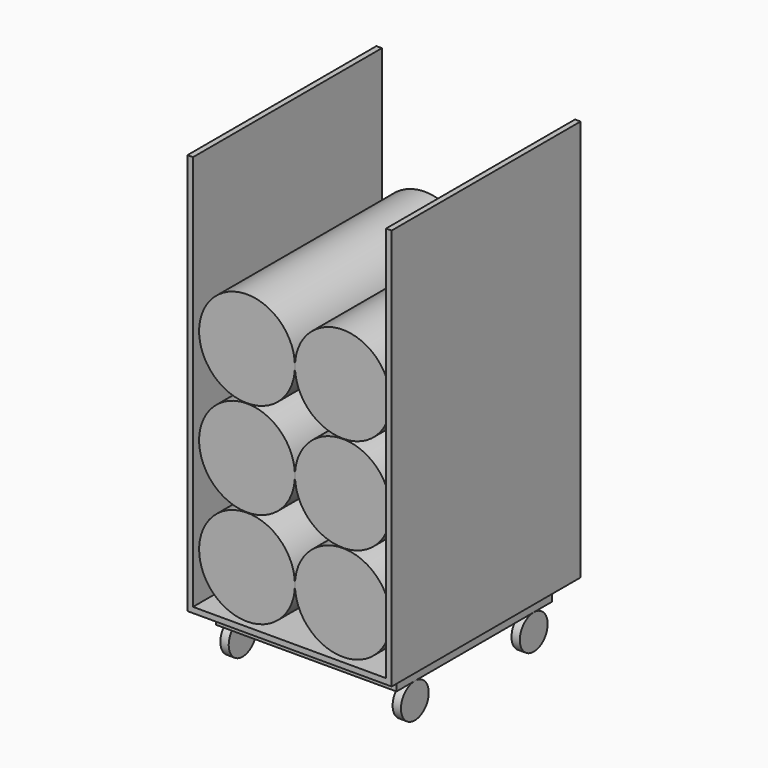
from build123d import *

# Parameters (mm, degrees)
F0_W      = 735
F0_H      = 850
F1_DEPTH  = 10
F2_W      = 20
F2_H      = 850
F3_DEPTH  = 1425
F4_R      = 172.5
F5_DEPTH  = 400
F6_W      = 650
F6_H      = 700
F6_W_2    = 580
F6_H_2    = 640
F7_DEPTH  = 60
F8_R      = 62.5
F9_DEPTH  = 30
F10_R     = 62.5
F11_DEPTH = 30


with BuildPart() as f1:
    # F0 (on Top) → F1 (new body, symmetric)
    with BuildSketch(Plane.XY):
        Rectangle(F0_W, F0_H)
    extrude(amount=F1_DEPTH, both=True)

    # F2 (on face) → F3 (join)
    with BuildSketch(Plane.XY.offset(10)):
        with Locations((-357.5, 0)):
            Rectangle(F2_W, F2_H)
        with Locations((357.5, 0)):
            Rectangle(F2_W, F2_H)
    extrude(amount=F3_DEPTH)

    # F4 (on Front) → F5 (join, symmetric)
    with BuildSketch(Plane.XZ):
        with Locations((-173, 182.5)):
            Circle(F4_R)
        with BuildLine():
            ThreePointArc((344.5, 182.5), (172, 355), (-0.5, 182.5))
            ThreePointArc((-0.5, 182.5), (172, 10), (344.5, 182.5))
        make_face()
    extrude(amount=F5_DEPTH, both=True)

    # F6 (on face) → F7 (join)
    with BuildSketch(Plane(origin=(0, 0, -10), x_dir=(1, 0, 0), z_dir=(0, 0, -1))):
        Rectangle(F6_W, F6_H)
        Rectangle(F6_W_2, F6_H_2, mode=Mode.SUBTRACT)
    extrude(amount=F7_DEPTH)

    # F8 (on face) → F9 (join)
    with BuildSketch(Plane.YZ.offset(325)):
        with Locations((-267.5, -132.5)):
            Circle(F8_R)
        with Locations((267.5, -132.5)):
            Circle(F8_R)
    extrude(amount=-F9_DEPTH)


with BuildPart() as f5:
    # F4 (on Front) → F5, piece 2 (new body, symmetric)
    with BuildSketch(Plane.XZ):
        with Locations((-173, 528.5)):
            Circle(F4_R)
    extrude(amount=F5_DEPTH, both=True)

    # F4 (on Front) → F5, piece 3 (join, symmetric)
    with BuildSketch(Plane.XZ):
        with BuildLine():
            ThreePointArc((344.5, 528.5), (172, 701), (-0.5, 528.5))
            ThreePointArc((-0.5, 528.5), (172, 356), (344.5, 528.5))
        make_face()
    extrude(amount=F5_DEPTH, both=True)


with BuildPart() as f5b:
    # F4 (on Front) → F5, piece 4 (new body, symmetric)
    with BuildSketch(Plane.XZ):
        with Locations((-173, 874.5)):
            Circle(F4_R)
    extrude(amount=F5_DEPTH, both=True)

    # F4 (on Front) → F5, piece 5 (join, symmetric)
    with BuildSketch(Plane.XZ):
        with BuildLine():
            ThreePointArc((344.5, 874.5), (172, 1047), (-0.5, 874.5))
            ThreePointArc((-0.5, 874.5), (172, 702), (344.5, 874.5))
        make_face()
    extrude(amount=F5_DEPTH, both=True)


with BuildPart() as f11:
    # F10 (on face) → F11 (new body)
    with BuildSketch(Plane(origin=(-325, 0, 0), x_dir=(0, -1, 0), z_dir=(-1, 0, 0))):
        with Locations((-267.5, -132.5)):
            Circle(F10_R)
    extrude(amount=-F11_DEPTH)


with BuildPart() as f11b:
    # F10 (on face) → F11, piece 2 (new body)
    with BuildSketch(Plane(origin=(-325, 0, 0), x_dir=(0, -1, 0), z_dir=(-1, 0, 0))):
        with Locations((267.5, -132.5)):
            Circle(F10_R)
    extrude(amount=-F11_DEPTH)


solid = Compound([f1.part, f5.part, f5b.part, f11.part, f11b.part])
